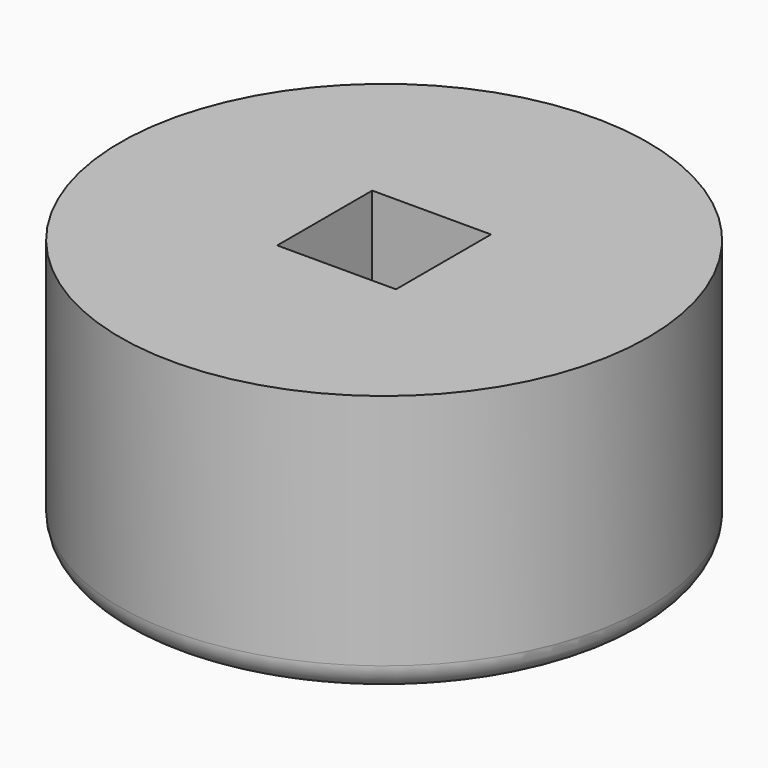
from build123d import *

# Parameters (mm, degrees)
F0_R     = 20
F0_W     = 9
F0_H     = 9
F1_DEPTH = 3
F2_DEPTH = 20
F3_R     = 2


with BuildPart() as f1:
    # F0 (on Top) → F1 (new body)
    with BuildSketch(Plane.XY):
        Circle(F0_R)
        Rectangle(F0_W, F0_H, mode=Mode.SUBTRACT)
        Rectangle(F0_W, F0_H)
    extrude(amount=F1_DEPTH)

    # F0 (on Top) → F2 (join)
    with BuildSketch(Plane.XY):
        Circle(F0_R)
        Rectangle(F0_W, F0_H, mode=Mode.SUBTRACT)
    extrude(amount=F2_DEPTH)

    # F3
    f3_edges = [f1.edges().sort_by_distance(p)[0] for p in [
        (-20, 0, 0),
    ]]
    fillet(f3_edges, radius=F3_R)


solid = f1.part
